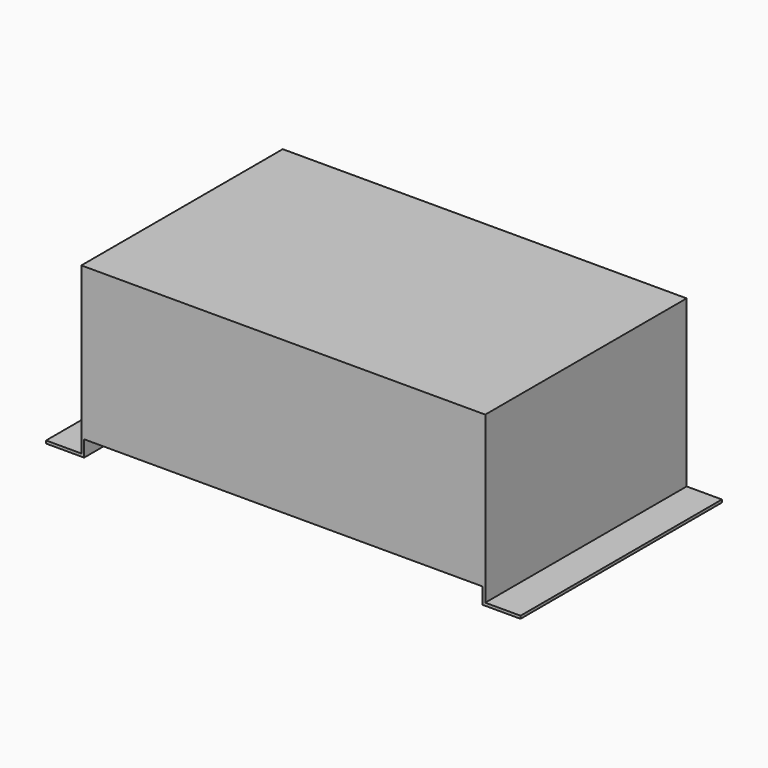
from build123d import *

# Parameters (mm, degrees)
F0_W     = 146
F0_H     = 91
F1_DEPTH = 55
F3_DEPTH = 91


with BuildPart() as f1:
    # F0 (on Top) → F1 (new body)
    with BuildSketch(Plane.XY):
        Rectangle(F0_W, F0_H)
    extrude(amount=F1_DEPTH)

    # F2 (on face) → F3 (join, through all)
    with BuildSketch(Plane.XZ.offset(45.5)):
        Polygon((-72, 0), (-73, 0), (-73, -4.85), (-85.75, -4.85), (-85.75, -5.85), (-73, -5.85), (-72, -5.85), align=None)
        Polygon((73, -4.85), (73, 0), (72, 0), (72, -5.85), (73, -5.85), (85.75, -5.85), (85.75, -4.85), align=None)
    extrude(amount=-F3_DEPTH)


solid = f1.part
